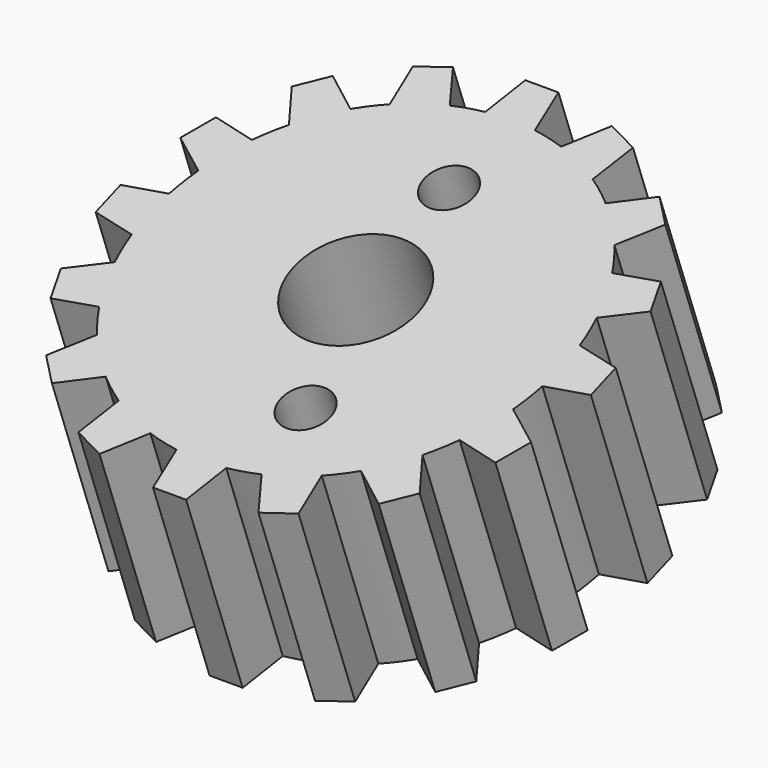
from build123d import *

# Parameters (mm, degrees)
F0_R     = 3
F0_R_2   = 7.5
F1_DEPTH = 25
F3_ANGLE = 20


with BuildPart() as f1:
    # F0 (on Top) → F1 (new body)
    with BuildSketch(Plane.XY):
        with BuildLine():
            Line((3, 24.819347), (2, 29.933259))
            Line((2, 29.933259), (-2, 29.933259))
            Line((-2, 29.933259), (-3, 24.819347))
            ThreePointArc((-3, 24.819347), (-4.877258, 24.519632), (-6.726314, 24.078137))
            Line((-6.726314, 24.078137), (-9.607203, 28.420092))
            Line((-9.607203, 28.420092), (-13.302721, 26.889359))
            Line((-13.302721, 26.889359), (-12.269592, 21.782037))
            ThreePointArc((-12.269592, 21.782037), (-13.889256, 20.78674), (-15.428608, 19.671249))
            Line((-15.428608, 19.671249), (-19.751797, 22.580224))
            Line((-19.751797, 22.580224), (-22.580224, 19.751797))
            Line((-22.580224, 19.751797), (-19.671249, 15.428609))
            ThreePointArc((-19.671249, 15.428609), (-20.78674, 13.889256), (-21.782037, 12.269592))
            Line((-21.782037, 12.269592), (-26.889359, 13.302722))
            Line((-26.889359, 13.302722), (-28.420092, 9.607203))
            Line((-28.420092, 9.607203), (-24.078137, 6.726315))
            ThreePointArc((-24.078137, 6.726315), (-24.519632, 4.877258), (-24.819347, 3))
            Line((-24.819347, 3), (-29.933259, 2))
            Line((-29.933259, 2), (-29.933259, -2))
            Line((-29.933259, -2), (-24.819347, -3))
            ThreePointArc((-24.819347, -3), (-24.519632, -4.877258), (-24.078137, -6.726314))
            Line((-24.078137, -6.726314), (-28.420092, -9.607203))
            Line((-28.420092, -9.607203), (-26.889359, -13.302721))
            Line((-26.889359, -13.302721), (-21.782037, -12.269592))
            ThreePointArc((-21.782037, -12.269592), (-20.78674, -13.889256), (-19.671249, -15.428608))
            Line((-19.671249, -15.428608), (-22.580224, -19.751797))
            Line((-22.580224, -19.751797), (-19.751797, -22.580224))
            Line((-19.751797, -22.580224), (-15.428608, -19.671249))
            ThreePointArc((-15.428608, -19.671249), (-13.889256, -20.78674), (-12.269592, -21.782037))
            Line((-12.269592, -21.782037), (-13.302721, -26.889359))
            Line((-13.302721, -26.889359), (-9.607203, -28.420092))
            Line((-9.607203, -28.420092), (-6.726314, -24.078137))
            ThreePointArc((-6.726314, -24.078137), (-4.877258, -24.519632), (-3, -24.819347))
            Line((-3, -24.819347), (-2, -29.933259))
            Line((-2, -29.933259), (2, -29.933259))
            Line((2, -29.933259), (3, -24.819347))
            ThreePointArc((3, -24.819347), (4.877258, -24.519632), (6.726314, -24.078137))
            Line((6.726314, -24.078137), (9.607203, -28.420092))
            Line((9.607203, -28.420092), (13.302721, -26.889359))
            Line((13.302721, -26.889359), (12.269592, -21.782037))
            ThreePointArc((12.269592, -21.782037), (13.889256, -20.78674), (15.428608, -19.671249))
            Line((15.428608, -19.671249), (19.751797, -22.580224))
            Line((19.751797, -22.580224), (22.580224, -19.751797))
            Line((22.580224, -19.751797), (19.671249, -15.428608))
            ThreePointArc((19.671249, -15.428608), (20.78674, -13.889256), (21.782037, -12.269592))
            Line((21.782037, -12.269592), (26.889359, -13.302721))
            Line((26.889359, -13.302721), (28.420092, -9.607203))
            Line((28.420092, -9.607203), (24.078137, -6.726314))
            ThreePointArc((24.078137, -6.726314), (24.519632, -4.877258), (24.819347, -3))
            Line((24.819347, -3), (29.933259, -2))
            Line((29.933259, -2), (29.933259, 2))
            Line((29.933259, 2), (24.819347, 3))
            ThreePointArc((24.819347, 3), (24.519632, 4.877258), (24.078137, 6.726314))
            Line((24.078137, 6.726314), (28.420092, 9.607203))
            Line((28.420092, 9.607203), (26.889359, 13.302721))
            Line((26.889359, 13.302721), (21.782037, 12.269592))
            ThreePointArc((21.782037, 12.269592), (20.78674, 13.889256), (19.671249, 15.428608))
            Line((19.671249, 15.428608), (22.580224, 19.751797))
            Line((22.580224, 19.751797), (19.751797, 22.580224))
            Line((19.751797, 22.580224), (15.428608, 19.671249))
            ThreePointArc((15.428608, 19.671249), (13.889256, 20.78674), (12.269592, 21.782037))
            Line((12.269592, 21.782037), (13.302721, 26.889359))
            Line((13.302721, 26.889359), (9.607203, 28.420092))
            Line((9.607203, 28.420092), (6.726314, 24.078137))
            ThreePointArc((6.726314, 24.078137), (4.877258, 24.519632), (3, 24.819347))
        make_face()
        with Locations((5.212864, -15)):
            Circle(F0_R, mode=Mode.SUBTRACT)
        Circle(F0_R_2, mode=Mode.SUBTRACT)
        with Locations((0, 15)):
            Circle(F0_R, mode=Mode.SUBTRACT)
    extrude(amount=F1_DEPTH)


with BuildPart() as f1_1:
    # F3: moved
    add(f1.part.rotate(Axis((0.748886, 0, 25), (1, 0, 0)), F3_ANGLE))


solid = f1_1.part
